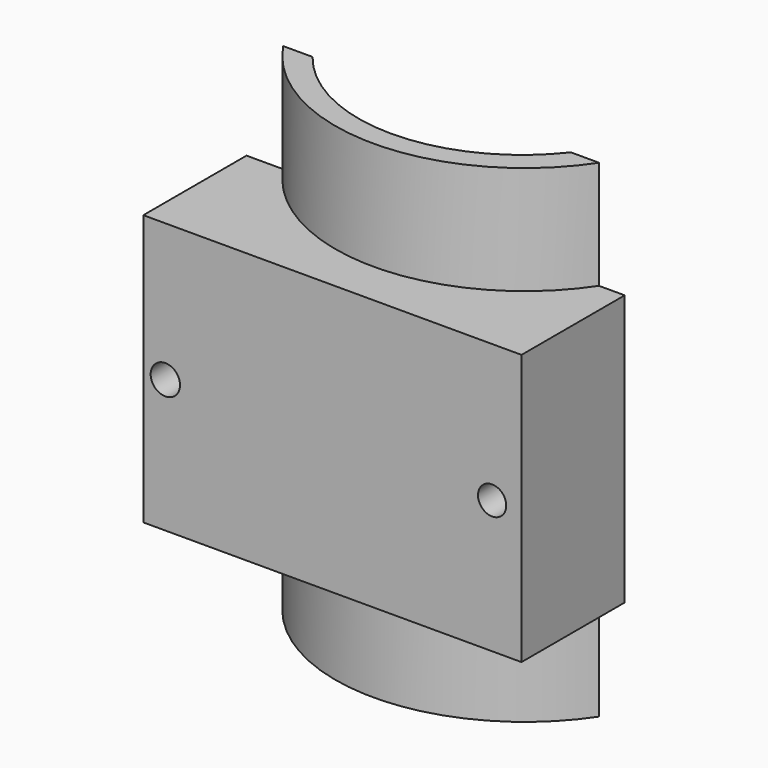
from build123d import *

# Parameters (mm, degrees)
F0_W     = 74.4671411812
F0_H     = 53.2596688718
F1_DEPTH = 25.4
F3_DEPTH = 74.676
F4_DEPTH = 96.012
F5_DEPTH = 126.238
F6_R     = 2.8919279575
F7_DEPTH = 69.596
F8_R     = 2.7844971125
F9_DEPTH = 71.374


with BuildPart() as f1:
    # F0 (on Front) → F1 (new body)
    with BuildSketch(Plane.XZ):
        with Locations((9.880753234, 0.4819883034)):
            Rectangle(F0_W, F0_H)
    extrude(amount=F1_DEPTH)

    # F2 (on face) → F3 (join)
    with BuildSketch(Plane.XY.offset(27.1118227392)):
        with BuildLine():
            ThreePointArc((36.5105904639, 0), (11.0857244581, -12.4089535166), (-14.3391415477, 0))
            Line((-14.3391415477, 0), (-20.1229974627, 0))
            ThreePointArc((-20.1229974627, 0), (10.9652262181, -16.6939246271), (42.053449899, 0))
            Line((42.053449899, 0), (36.5105904639, 0))
        make_face()
    extrude(amount=-F3_DEPTH)

    # F4 (add): a face of the model
    f4_faces = [f1.faces().sort_by_distance(p)[0] for p in [
        (39.2820201814, -0.643785502, -47.5641772608),
    ]]
    extrude(f4_faces, amount=-F4_DEPTH)

    # F5 (cut): a face of the model
    f5_faces = [f1.faces().sort_by_distance(p)[0] for p in [
        (11.0857244581, -5.0557746848, 27.1118227392),
    ]]
    extrude(f5_faces, amount=-F5_DEPTH, mode=Mode.SUBTRACT)

    # F6 (on face) → F7 (cut)
    with BuildSketch(Plane(origin=(0, 0, 0), x_dir=(-1, 0, 0), z_dir=(0, 1, 0))):
        with Locations((23.0149254203, 0)):
            Circle(F6_R)
    extrude(amount=-F7_DEPTH, mode=Mode.SUBTRACT)

    # F8 (on face) → F9 (cut)
    with BuildSketch(Plane(origin=(0, 0, 0), x_dir=(-1, 0, 0), z_dir=(0, 1, 0))):
        with Locations((-41.3304679096, 0)):
            Circle(F8_R)
    extrude(amount=-F9_DEPTH, mode=Mode.SUBTRACT)


solid = f1.part
